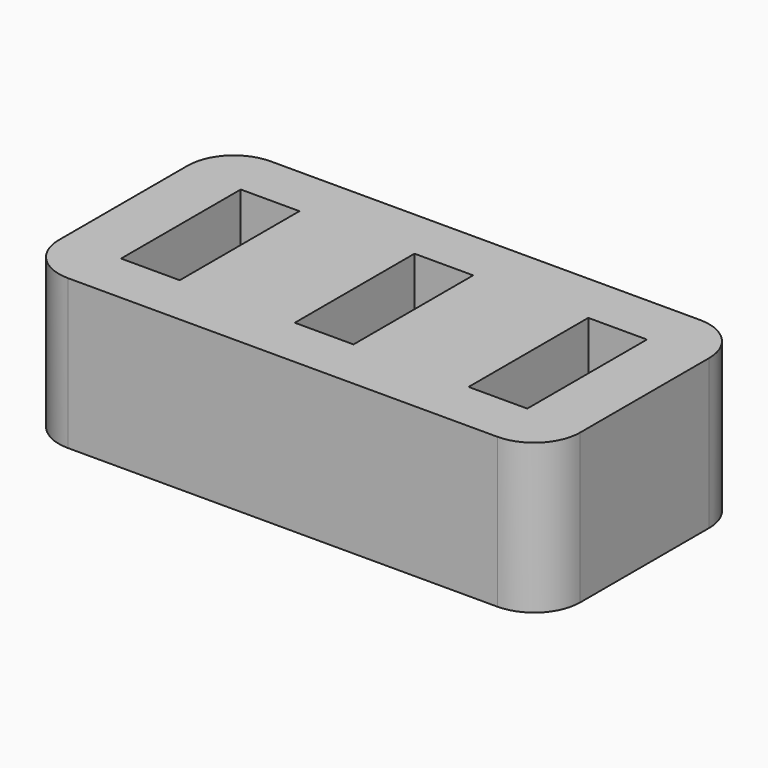
from build123d import *

# Parameters (mm, degrees)
SKETCH_W   = 45.3
SKETCH_H   = 22
SKETCH_W_2 = 5.1
SKETCH_H_2 = 13
PAD_DEPTH  = 13
FILLET_R   = 4


with BuildPart() as part:
    # Sketch → Pad (new body)
    with BuildSketch(Plane.XY):
        Rectangle(SKETCH_W, SKETCH_H)
        Rectangle(SKETCH_W_2, SKETCH_H_2, mode=Mode.SUBTRACT)
        with Locations((-15.1, 0)):
            Rectangle(SKETCH_W_2, SKETCH_H_2, mode=Mode.SUBTRACT)
        with Locations((15.1, 0)):
            Rectangle(SKETCH_W_2, SKETCH_H_2, mode=Mode.SUBTRACT)
    extrude(amount=-PAD_DEPTH)

    # Fillet
    fillet_edges = [part.edges().sort_by_distance(p)[0] for p in [
        (-22.65, -11, -6.5),
        (22.65, -11, -6.5),
        (22.65, 11, -6.5),
        (-22.65, 11, -6.5),
    ]]
    fillet(fillet_edges, radius=FILLET_R)


solid = part.part
